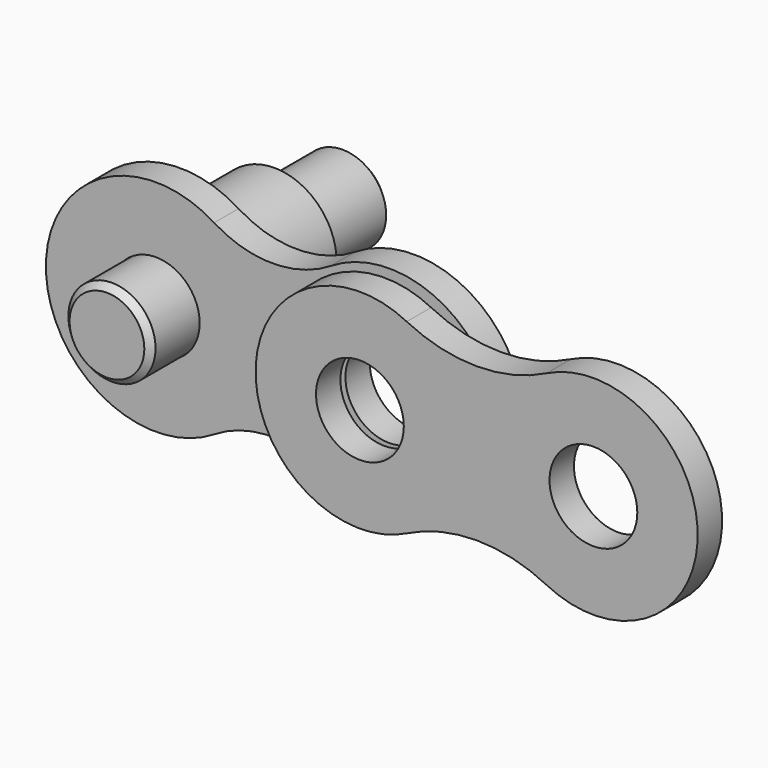
from build123d import *

# Parameters (mm, degrees)
F0_R      = 1.7907
F1_DEPTH  = 1.2446
F2_R      = 2.54
F2_R_2    = 1.7907
F3_DEPTH  = 4.8006
F6_R      = 1.778
F7_DEPTH  = 6.1341
F8_SIZE   = 0.254
F10_R     = 1.7907
F11_DEPTH = 1.2446


with BuildPart() as f1:
    # F0 (on Front) → F1 (new body)
    with BuildSketch(Plane.XZ):
        with BuildLine():
            ThreePointArc((7.14375, 3.7983988795), (4.7625, 3.1136977589), (2.38125, 3.7983988795))
            ThreePointArc((2.38125, 3.7983988795), (-4.4831, 0), (2.38125, -3.7983988795))
            ThreePointArc((2.38125, -3.7983988795), (4.7625, -3.1136977589), (7.14375, -3.7983988795))
            ThreePointArc((7.14375, -3.7983988795), (14.0081, 0), (7.14375, 3.7983988795))
        make_face()
        Circle(F0_R, mode=Mode.SUBTRACT)
        with Locations((9.525, 0)):
            Circle(F0_R, mode=Mode.SUBTRACT)
    extrude(amount=F1_DEPTH)


with BuildPart() as f3:
    # F2 (on face) → F3 (new body)
    with BuildSketch(Plane(origin=(0, 0, 0), x_dir=(-1, 0, 0), z_dir=(0, 1, 0))):
        Circle(F2_R)
        Circle(F2_R_2, mode=Mode.SUBTRACT)
    extrude(amount=F3_DEPTH)


with BuildPart() as f7:
    # F6 (on plane+point) → F7 (new body, symmetric)
    with BuildSketch(Plane.XZ.offset(-2.4003)):
        Circle(F6_R)
    extrude(amount=F7_DEPTH, both=True)

    # F8
    f8_edges = [f7.edges().sort_by_distance(p)[0] for p in [
        (-1.778, -3.7338, 0),
        (-1.778, 8.5344, 0),
    ]]
    chamfer(f8_edges, length=F8_SIZE)


with BuildPart() as f11:
    # F10 (on offset) → F11 (new body)
    with BuildSketch(Plane.XZ.offset(1.4986)):
        with BuildLine():
            ThreePointArc((17.1392964072, 3.8013131981), (14.2875, 3.1249149864), (11.4357035928, 3.8013131981))
            ThreePointArc((11.4357035928, 3.8013131981), (5.2705, 0), (11.4357035928, -3.8013131981))
            ThreePointArc((11.4357035928, -3.8013131981), (14.2875, -3.1249149864), (17.1392964072, -3.8013131981))
            ThreePointArc((17.1392964072, -3.8013131981), (23.3045, 0), (17.1392964072, 3.8013131981))
        make_face()
        with Locations((9.525, 0)):
            Circle(F10_R, mode=Mode.SUBTRACT)
        with Locations((19.05, 0)):
            Circle(F10_R, mode=Mode.SUBTRACT)
    extrude(amount=F11_DEPTH)


solid = Compound([f1.part, f3.part, f7.part, f11.part])
